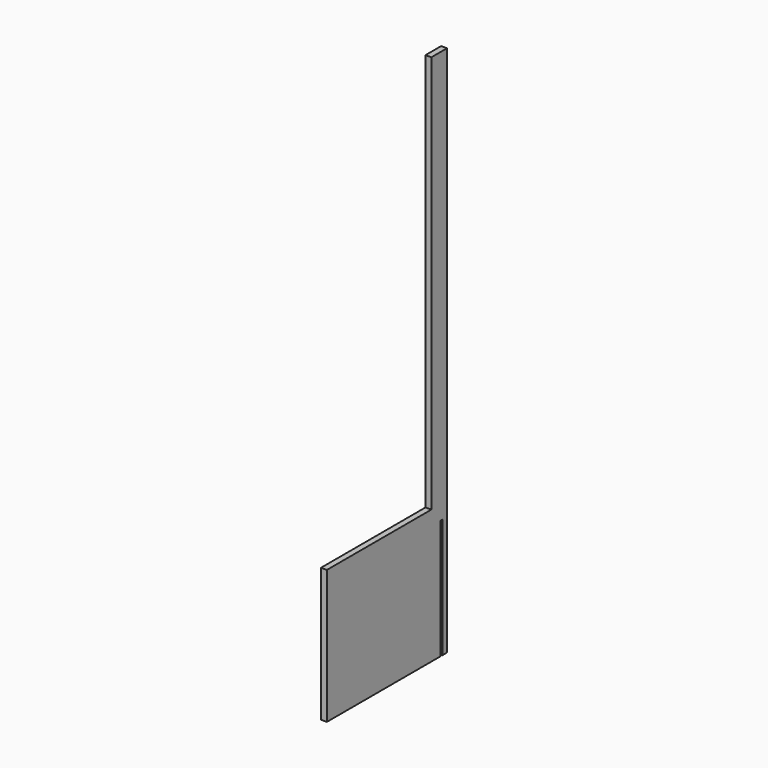
from build123d import *

# Parameters (mm, degrees)
F1_DEPTH = 18
F2_W     = 6
F2_H     = 366
F3_DEPTH = 6


with BuildPart() as f1:
    # F0 (on Right) → F1 (new body)
    with BuildSketch(Plane.YZ):
        Polygon((30, -907.5), (30, 722.5), (-30, 722.5), (-30, -497.5), (-430, -497.5), (-430, -907.5), align=None)
    extrude(amount=F1_DEPTH)

    # F2 (on face) → F3 (cut)
    with BuildSketch(Plane.YZ.offset(18)):
        with Locations((9, -724.5)):
            Rectangle(F2_W, F2_H)
    extrude(amount=-F3_DEPTH, mode=Mode.SUBTRACT)


solid = f1.part
